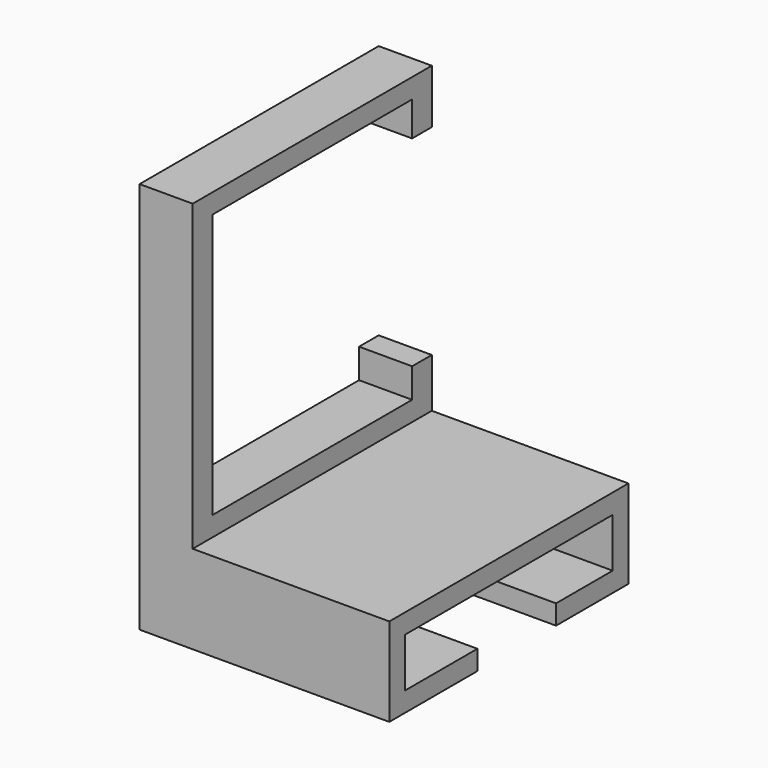
from build123d import *

# Parameters (mm, degrees)
BOX009_W               = 20.4
BOX009_H               = 25.4
BOX009_DEPTH           = 10
BOX008_W               = 26.9
BOX008_H               = 26
BOX008_DEPTH           = 25.4
BOX007_W               = 30.9
BOX007_H               = 5.4
BOX007_DEPTH           = 30.4
CUT004_PITCH_ANGLE     = -90
CUT004_PLACEMENT_ANGLE = 90
BOX_W                  = 25.4
BOX_H                  = 30.4
BOX_DEPTH              = 2
BOX003_W               = 25.4
BOX003_H               = 2
BOX003_DEPTH           = 5
BOX002_W               = 25.4
BOX002_H               = 2
BOX002_DEPTH           = 5
BOX004_W               = 17
BOX004_H               = 10
BOX004_DEPTH           = 4
CYLINDER_R             = 5
CYLINDER_DEPTH         = 4
BOX001_W               = 25.4
BOX001_H               = 30.4
BOX001_DEPTH           = 2


with BuildPart() as gap:
    # Box009 → Box009 (new body)
    with BuildSketch(Plane(origin=(5, 0, 0), x_dir=(1, 0, 0), z_dir=(0, 0, 1))):
        with Locations((10.2, 12.7)):
            Rectangle(BOX009_W, BOX009_H)
    extrude(amount=BOX009_DEPTH)


with BuildPart() as bar:
    # Box008 → Box008 (new body)
    with BuildSketch(Plane(origin=(2, 0, 2.5), x_dir=(1, 0, 0), z_dir=(0, 0, 1))):
        with Locations((13.45, 13)):
            Rectangle(BOX008_W, BOX008_H)
    extrude(amount=BOX008_DEPTH)


with BuildPart() as clip:
    # Box007 → Box007 (new body)
    with BuildSketch(Plane.XY):
        with Locations((15.45, 2.7)):
            Rectangle(BOX007_W, BOX007_H)
    extrude(amount=BOX007_DEPTH)

    # Cut003: cut Bar
    add(bar.part, mode=Mode.SUBTRACT)

    # Cut004: cut Gap
    add(gap.part, mode=Mode.SUBTRACT)


with BuildPart() as clip_1:
    # Cut004 pitch: moved
    add(clip.part.rotate(Axis((0, 0, 0), (0, 1, 0)), CUT004_PITCH_ANGLE))


with BuildPart() as clip_2:
    # Cut004 placement: moved
    add(clip_1.part.moved(Location((5.4, 30.4, 9))).rotate(Axis((5.4, 30.4, 9), (0, 0, 1)), CUT004_PLACEMENT_ANGLE))


with BuildPart() as top:
    # Box → Box (new body)
    with BuildSketch(Plane.XY.offset(7)):
        with Locations((12.7, 15.2)):
            Rectangle(BOX_W, BOX_H)
    extrude(amount=BOX_DEPTH)


with BuildPart() as right:
    # Box003 → Box003 (new body)
    with BuildSketch(Plane(origin=(0, 28.4, 2), x_dir=(1, 0, 0), z_dir=(0, 0, 1))):
        with Locations((12.7, 1)):
            Rectangle(BOX003_W, BOX003_H)
    extrude(amount=BOX003_DEPTH)


with BuildPart() as left:
    # Box002 → Box002 (new body)
    with BuildSketch(Plane.XY.offset(2)):
        with Locations((12.7, 1)):
            Rectangle(BOX002_W, BOX002_H)
    extrude(amount=BOX002_DEPTH)


with BuildPart() as cube:
    # Box004 → Box004 (new body)
    with BuildSketch(Plane(origin=(9, 11.2, 9), x_dir=(1, 0, 0), z_dir=(0, 0, 1))):
        with Locations((8.5, 5)):
            Rectangle(BOX004_W, BOX004_H)
    extrude(amount=BOX004_DEPTH)


with BuildPart() as cylinder:
    # Cylinder → Cylinder (new body)
    with BuildSketch(Plane(origin=(9, 16.2, 9), x_dir=(1, 0, 0), z_dir=(0, 0, 1))):
        Circle(CYLINDER_R)
    extrude(amount=CYLINDER_DEPTH)


with BuildPart() as fusion003:
    # Box001 → Box001 (new body)
    with BuildSketch(Plane.XY.offset(10)):
        with Locations((12.7, 15.2)):
            Rectangle(BOX001_W, BOX001_H)
    extrude(amount=BOX001_DEPTH)

    # Cut: cut Cylinder
    add(cylinder.part, mode=Mode.SUBTRACT)

    # Cut001: cut Cube
    add(cube.part, mode=Mode.SUBTRACT)


with BuildPart() as fusion003_1:
    # Cut001 placement: moved
    add(fusion003.part.moved(Location((0, 0, -10))))

    # Fusion: union Left
    add(left.part)

    # Fusion001: union Right
    add(right.part)

    # Fusion002: union Top
    add(top.part)

    # Fusion003: union Clip
    add(clip_2.part)


solid = fusion003_1.part
